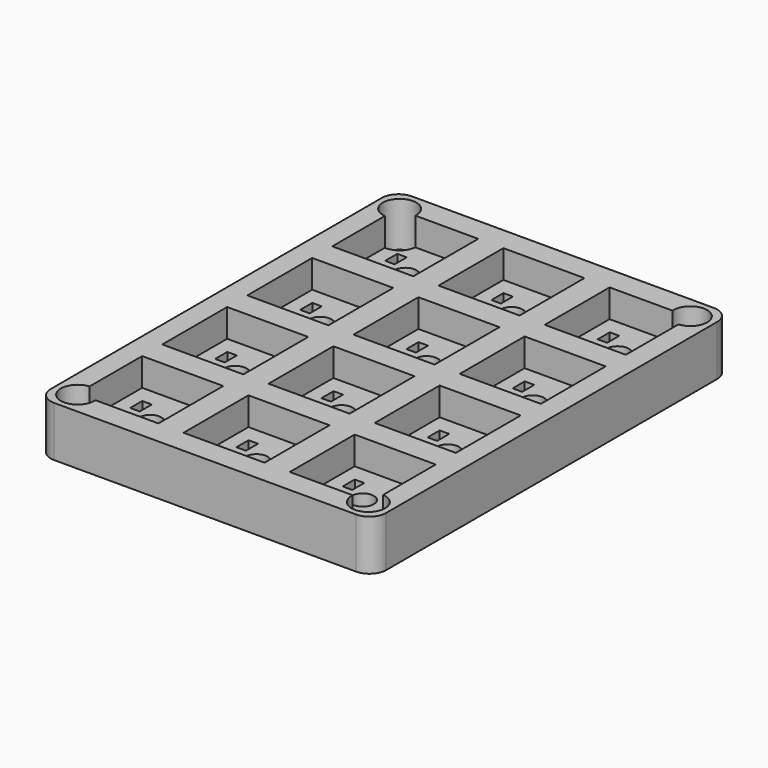
from build123d import *

# Parameters (mm, degrees)
SKETCH1034_W           = 60
SKETCH1034_H           = 80
PAD292_DEPTH           = 9
SKETCH1035_W           = 14.5
SKETCH1035_H           = 14.5
POCKET1179_DEPTH       = 5
SKETCH1036_R           = 2
POCKET1180_DEPTH       = 5
SKETCH1037_W           = 1.7
SKETCH1037_H           = 2.7
POCKET1181_DEPTH       = 3
LINEARPATTERN002_COUNT = 3
LINEARPATTERN002_PITCH = 19
SKETCH1038_W           = 1
SKETCH1038_H           = 1
POCKET1182_DEPTH       = 5
LINEARPATTERN003_COUNT = 3
LINEARPATTERN003_PITCH = 19
FILLET136_R            = 3
SKETCH1039_R           = 1.6
POCKET1183_DEPTH       = 9
SKETCH1040_R           = 3
POCKET1184_DEPTH       = 8
SKETCH1041_R           = 1.75
POCKET1185_DEPTH       = 5
LINEARPATTERN004_COUNT = 3
LINEARPATTERN004_PITCH = 19


with BuildPart() as part:
    # Sketch1034 → Pad292 (new body)
    with BuildSketch(Plane.XY):
        Rectangle(SKETCH1034_W, SKETCH1034_H)
    extrude(amount=PAD292_DEPTH)

    # Sketch1035 (on Face6 of Pad292) → Pocket1179 (cut)
    with BuildSketch(Plane.XY.offset(9)):
        with Locations((-19, 28.5)):
            Rectangle(SKETCH1035_W, SKETCH1035_H)
        with Locations((0, 28.5)):
            Rectangle(SKETCH1035_W, SKETCH1035_H)
        with Locations((19, 28.5)):
            Rectangle(SKETCH1035_W, SKETCH1035_H)
        with Locations((-19, 9.5)):
            Rectangle(SKETCH1035_W, SKETCH1035_H)
        with Locations((0, 9.5)):
            Rectangle(SKETCH1035_W, SKETCH1035_H)
        with Locations((19, 9.5)):
            Rectangle(SKETCH1035_W, SKETCH1035_H)
        with Locations((-19, -9.5)):
            Rectangle(SKETCH1035_W, SKETCH1035_H)
        with Locations((0, -9.5)):
            Rectangle(SKETCH1035_W, SKETCH1035_H)
        with Locations((19, -9.5)):
            Rectangle(SKETCH1035_W, SKETCH1035_H)
        with Locations((-19, -28.5)):
            Rectangle(SKETCH1035_W, SKETCH1035_H)
        with Locations((0, -28.5)):
            Rectangle(SKETCH1035_W, SKETCH1035_H)
        with Locations((19, -28.5)):
            Rectangle(SKETCH1035_W, SKETCH1035_H)
    extrude(amount=-POCKET1179_DEPTH, mode=Mode.SUBTRACT)

    # Sketch1036 (on Face62 of Pocket1179) → Pocket1180 (cut)
    with BuildSketch(Plane.XY.offset(4)):
        with Locations((-19, 28.5)):
            Circle(SKETCH1036_R)
        with Locations((0, 28.5)):
            Circle(SKETCH1036_R)
        with Locations((19, 28.5)):
            Circle(SKETCH1036_R)
        with Locations((-19, 9.5)):
            Circle(SKETCH1036_R)
        with Locations((0, 9.5)):
            Circle(SKETCH1036_R)
        with Locations((19, 9.5)):
            Circle(SKETCH1036_R)
        with Locations((-19, -9.5)):
            Circle(SKETCH1036_R)
        with Locations((0, -9.5)):
            Circle(SKETCH1036_R)
        with Locations((19, -9.5)):
            Circle(SKETCH1036_R)
        with Locations((-19, -28.5)):
            Circle(SKETCH1036_R)
        with Locations((0, -28.5)):
            Circle(SKETCH1036_R)
        with Locations((19, -28.5)):
            Circle(SKETCH1036_R)
    extrude(amount=-POCKET1180_DEPTH, mode=Mode.SUBTRACT)

    # Sketch1037 (on Face74 of Pocket1180) → Pocket1181 (cut)
    with BuildSketch(Plane.XY.offset(4)):
        with Locations((-22.9, 31.3)):
            Rectangle(SKETCH1037_W, SKETCH1037_H)
        with Locations((-16.4, 33.9)):
            Rectangle(SKETCH1037_W, SKETCH1037_H)
        with Locations((-22.9, 12.3)):
            Rectangle(SKETCH1037_W, SKETCH1037_H)
        with Locations((-16.4, 14.9)):
            Rectangle(SKETCH1037_W, SKETCH1037_H)
        with Locations((-22.9, -6.7)):
            Rectangle(SKETCH1037_W, SKETCH1037_H)
        with Locations((-16.4, -4.1)):
            Rectangle(SKETCH1037_W, SKETCH1037_H)
        with Locations((-22.9, -25.7)):
            Rectangle(SKETCH1037_W, SKETCH1037_H)
        with Locations((-16.4, -23.1)):
            Rectangle(SKETCH1037_W, SKETCH1037_H)
    pocket1181 = extrude(amount=-POCKET1181_DEPTH, mode=Mode.SUBTRACT)

    # LinearPattern002: Pocket1181 ×3
    with Locations(*[(i * LINEARPATTERN002_PITCH, 0, 0) for i in range(1, LINEARPATTERN002_COUNT)]):
        add(pocket1181, mode=Mode.SUBTRACT)

    # Sketch1038 (on Face189 of LinearPattern002) → Pocket1182 (cut)
    with BuildSketch(Plane.XY.offset(1)):
        with Locations((-22.9, 32.15)):
            Rectangle(SKETCH1038_W, SKETCH1038_H)
        with Locations((-16.4, 34.75)):
            Rectangle(SKETCH1038_W, SKETCH1038_H)
        with Locations((-22.9, 13.15)):
            Rectangle(SKETCH1038_W, SKETCH1038_H)
        with Locations((-16.4, 15.75)):
            Rectangle(SKETCH1038_W, SKETCH1038_H)
        with Locations((-22.9, -5.85)):
            Rectangle(SKETCH1038_W, SKETCH1038_H)
        with Locations((-16.4, -3.25)):
            Rectangle(SKETCH1038_W, SKETCH1038_H)
        with Locations((-22.9, -24.85)):
            Rectangle(SKETCH1038_W, SKETCH1038_H)
        with Locations((-16.4, -22.25)):
            Rectangle(SKETCH1038_W, SKETCH1038_H)
    pocket1182 = extrude(amount=-POCKET1182_DEPTH, mode=Mode.SUBTRACT)

    # LinearPattern003: Pocket1182 ×3
    with Locations(*[(i * LINEARPATTERN003_PITCH, 0, 0) for i in range(1, LINEARPATTERN003_COUNT)]):
        add(pocket1182, mode=Mode.SUBTRACT)

    # Fillet136
    fillet136_edges = [part.edges().sort_by_distance(p)[0] for p in [
        (30, -40, 4.5),
        (30, 40, 4.5),
        (-30, -40, 4.5),
        (-30, 40, 4.5),
    ]]
    fillet(fillet136_edges, radius=FILLET136_R)

    # Sketch1039 (on Face5 of Fillet136) → Pocket1183 (cut)
    with BuildSketch(Plane.XY.offset(9)):
        with Locations((-26, 36)):
            Circle(SKETCH1039_R)
        with Locations((26, 36)):
            Circle(SKETCH1039_R)
        with Locations((-26, -36)):
            Circle(SKETCH1039_R)
        with Locations((26, -36)):
            Circle(SKETCH1039_R)
    extrude(amount=-POCKET1183_DEPTH, mode=Mode.SUBTRACT)

    # Sketch1040 (on Face5 of Pocket1183) → Pocket1184 (cut)
    with BuildSketch(Plane.XY.offset(9)):
        with Locations((-26, 36)):
            Circle(SKETCH1040_R)
        with Locations((26, 36)):
            Circle(SKETCH1040_R)
        with Locations((-26, -36)):
            Circle(SKETCH1040_R)
        with Locations((26, -36)):
            Circle(SKETCH1040_R)
    extrude(amount=-POCKET1184_DEPTH, mode=Mode.SUBTRACT)

    # Sketch1041 (on Face232 of Pocket1184) → Pocket1185 (cut)
    with BuildSketch(Plane.XY.offset(4)):
        with Locations((-19, 24)):
            Circle(SKETCH1041_R)
        with Locations((-19, 5)):
            Circle(SKETCH1041_R)
        with Locations((-19, -14)):
            Circle(SKETCH1041_R)
        with Locations((-19, -33)):
            Circle(SKETCH1041_R)
    pocket1185 = extrude(amount=-POCKET1185_DEPTH, mode=Mode.SUBTRACT)

    # LinearPattern004: Pocket1185 ×3
    with Locations(*[(i * LINEARPATTERN004_PITCH, 0, 0) for i in range(1, LINEARPATTERN004_COUNT)]):
        add(pocket1185, mode=Mode.SUBTRACT)


with BuildPart() as part_1:
    # Body142 placement: moved
    add(part.part.moved(Location((0, 0, 10))))


solid = part_1.part
